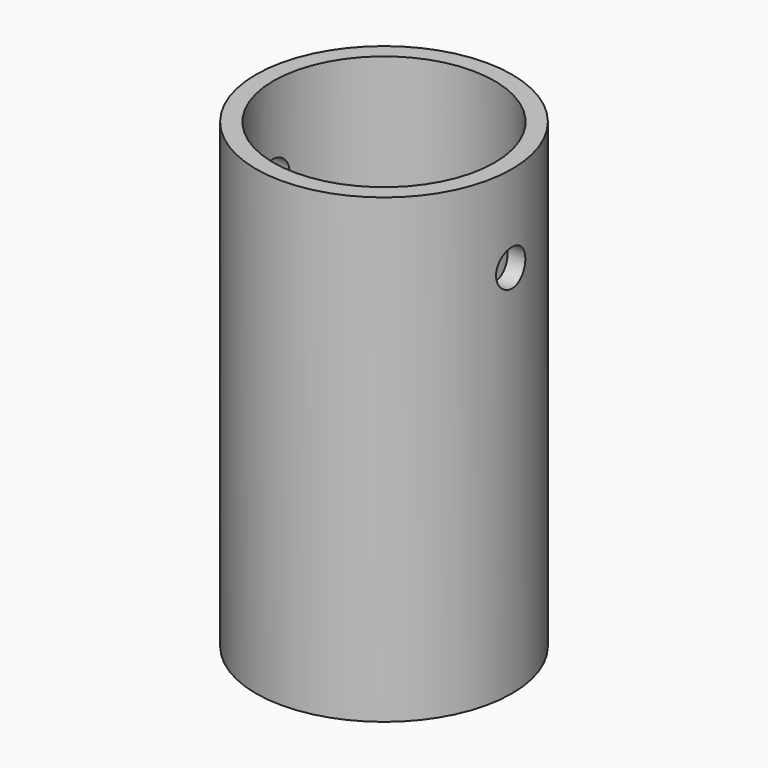
from build123d import *

# Parameters (mm, degrees)
F0_R     = 14
F0_R_2   = 12.1
F1_DEPTH = 27.5
F2_R     = 14
F2_R_2   = 4.5
F3_DEPTH = 5
F4_R     = 14
F4_R_2   = 10
F5_DEPTH = 16
F6_R     = 14
F6_R_2   = 9.15
F7_DEPTH = 2
F8_R     = 2
F9_DEPTH = 20


with BuildPart() as f1:
    # F0 (on Top) → F1 (new body)
    with BuildSketch(Plane.XY):
        Circle(F0_R)
        Circle(F0_R_2, mode=Mode.SUBTRACT)
    extrude(amount=F1_DEPTH)

    # F2 (on Top) → F3 (join)
    with BuildSketch(Plane.XY):
        Circle(F2_R)
        Circle(F2_R_2, mode=Mode.SUBTRACT)
    extrude(amount=-F3_DEPTH)

    # F4 (on face) → F5 (join)
    with BuildSketch(Plane(origin=(0, 0, -5), x_dir=(1, 0, 0), z_dir=(0, 0, -1))):
        Circle(F4_R)
        Circle(F4_R_2, mode=Mode.SUBTRACT)
    extrude(amount=F5_DEPTH)

    # F6 (on face) → F7 (join)
    with BuildSketch(Plane(origin=(0, 0, -21), x_dir=(1, 0, 0), z_dir=(0, 0, -1))):
        Circle(F6_R)
        Circle(F6_R_2, mode=Mode.SUBTRACT)
    extrude(amount=F7_DEPTH)

    # F8 (on Right) → F9 (cut, symmetric)
    with BuildSketch(Plane.YZ):
        with Locations((0, 18)):
            Circle(F8_R)
    extrude(amount=F9_DEPTH, both=True, mode=Mode.SUBTRACT)


solid = f1.part
